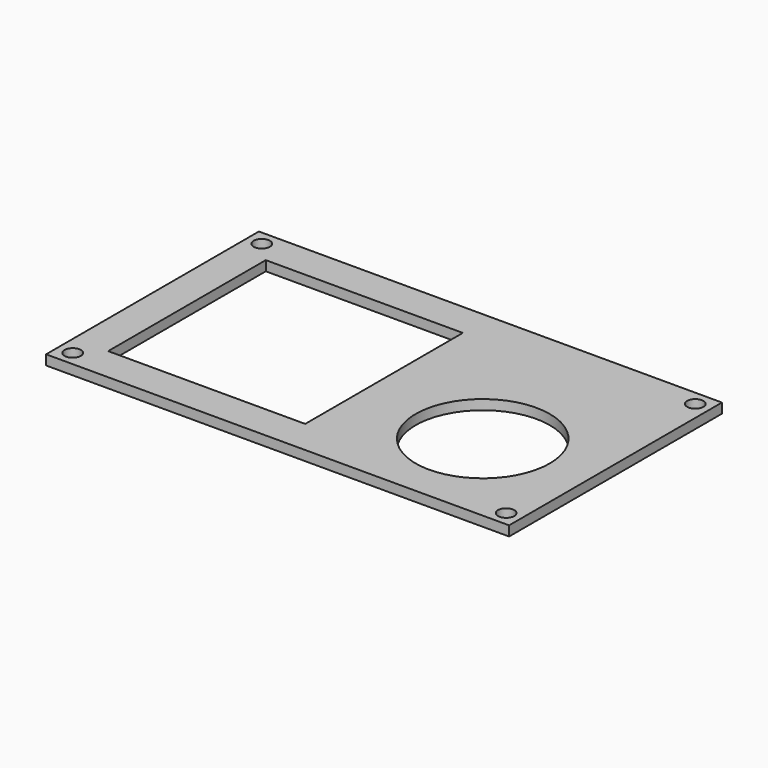
from build123d import *

# Parameters (mm, degrees)
SKETCH018_R      = 11
EXTRUDE016_DEPTH = 11
SKETCH015_W      = 33.86
SKETCH015_H      = 26.75
SKETCH015_R      = 1.65
EXTRUDE017_DEPTH = 1.6
SKETCH016_W      = 17
SKETCH016_H      = 12.75
EXTRUDE018_DEPTH = 4.3
SKETCH017_R      = 13.61
EXTRUDE015_DEPTH = 19.27
SKETCH028_W      = 94
SKETCH028_H      = 54
SKETCH028_R      = 1.65
SKETCH028_W_2    = 40
SKETCH028_H_2    = 40
EXTRUDE028_DEPTH = 2


with BuildPart() as extrude_joystick_stick:
    # Sketch018 → Extrude016 (new body)
    with BuildSketch(Plane.XY):
        with Locations((16.975, 14)):
            Circle(SKETCH018_R)
    extrude(amount=EXTRUDE016_DEPTH)


with BuildPart() as extrude_joystick_stick_1:
    # Extrude016 placement: moved
    add(extrude_joystick_stick.part.moved(Location((0, 0, 20.87))))


with BuildPart() as extrude_joystick_base:
    # Sketch015 → Extrude017 (new body)
    with BuildSketch(Plane.XY):
        with Locations((16.93, 13.375)):
            Rectangle(SKETCH015_W, SKETCH015_H)
        with Locations((5, 22.88)):
            Circle(SKETCH015_R, mode=Mode.SUBTRACT)
        with Locations((31.01, 22.88)):
            Circle(SKETCH015_R, mode=Mode.SUBTRACT)
        with Locations((4.99, 3.31)):
            Circle(SKETCH015_R, mode=Mode.SUBTRACT)
        with Locations((31.01, 3.31)):
            Circle(SKETCH015_R, mode=Mode.SUBTRACT)
    extrude(amount=EXTRUDE017_DEPTH)


with BuildPart() as extrude_joystick_connector:
    # Sketch016 → Extrude018 (new body)
    with BuildSketch(Plane.XY):
        with Locations((-8.5, 13.875)):
            Rectangle(SKETCH016_W, SKETCH016_H)
    extrude(amount=EXTRUDE018_DEPTH)


with BuildPart() as extrude_joystick_connector_1:
    # Extrude018 placement: moved
    add(extrude_joystick_connector.part.moved(Location((0.1, 0, 1.6))))


with BuildPart() as fusion_joystick_connector001:
    # Sketch017 → Extrude015 (new body)
    with BuildSketch(Plane.XY):
        with Locations((17.15, 13.61)):
            Circle(SKETCH017_R)
    extrude(amount=EXTRUDE015_DEPTH)


with BuildPart() as fusion_joystick_connector001_1:
    # Extrude015 placement: moved
    add(fusion_joystick_connector001.part.moved(Location((0, 0, 1.6))))

    # Fusion005: union Extrude_JoyStick_Stick, Extrude_JoyStick_base, Extrude_JoyStick_connector
    add(extrude_joystick_stick_1.part)
    add(extrude_joystick_base.part)
    add(extrude_joystick_connector_1.part)


with BuildPart() as fusion_joystick_connector001_2:
    # Fusion005 placement: moved
    add(fusion_joystick_connector001_1.part.moved(Location((53, 5, 5))))


with BuildPart() as cut_controllercase_top:
    # Sketch028 → Extrude028 (new body)
    with BuildSketch(Plane.XY):
        with Locations((45, 25)):
            Rectangle(SKETCH028_W, SKETCH028_H)
        with Locations((1, 49)):
            Circle(SKETCH028_R, mode=Mode.SUBTRACT)
        with Locations((89, 49)):
            Circle(SKETCH028_R, mode=Mode.SUBTRACT)
        with Locations((89, 1)):
            Circle(SKETCH028_R, mode=Mode.SUBTRACT)
        with Locations((1, 1)):
            Circle(SKETCH028_R, mode=Mode.SUBTRACT)
        with Locations((25, 25)):
            Rectangle(SKETCH028_W_2, SKETCH028_H_2, mode=Mode.SUBTRACT)
    extrude(amount=EXTRUDE028_DEPTH)


with BuildPart() as cut_controllercase_top_1:
    # Extrude028 placement: moved
    add(cut_controllercase_top.part.moved(Location((0, 0, 19))))

    # Cut003: cut Fusion_JoyStick_connector001
    add(fusion_joystick_connector001_2.part, mode=Mode.SUBTRACT)


solid = cut_controllercase_top_1.part
